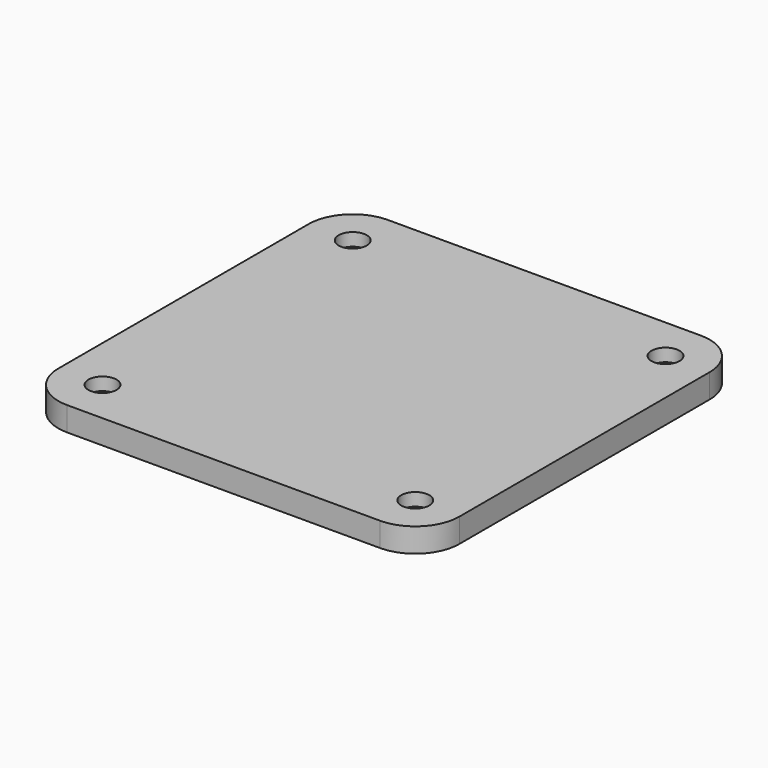
from build123d import *

# Parameters (mm, degrees)
F0_W     = 50
F0_H     = 50
F0_R     = 1.75
F1_DEPTH = 3
F2_R     = 5.5
F3_SIZE  = 1.4


with BuildPart() as f1:
    # F0 (on Top) → F1 (new body)
    with BuildSketch(Plane.XY):
        Rectangle(F0_W, F0_H)
        with Locations((-19.5, -19.5)):
            Circle(F0_R, mode=Mode.SUBTRACT)
        with Locations((19.5, -19.5)):
            Circle(F0_R, mode=Mode.SUBTRACT)
        with Locations((-19.5, 19.5)):
            Circle(F0_R, mode=Mode.SUBTRACT)
        with Locations((19.5, 19.5)):
            Circle(F0_R, mode=Mode.SUBTRACT)
    extrude(amount=F1_DEPTH)

    # F2
    f2_edges = [f1.edges().sort_by_distance(p)[0] for p in [
        (-25, -25, 1.5),
        (25, -25, 1.5),
        (25, 25, 1.5),
        (-25, 25, 1.5),
    ]]
    fillet(f2_edges, radius=F2_R)

    # F3
    f3_edges = [f1.edges().sort_by_distance(p)[0] for p in [
        (-21.25, -19.5, 0),
        (-21.25, 19.5, 0),
        (17.75, 19.5, 0),
        (17.75, -19.5, 0),
    ]]
    chamfer(f3_edges, length=F3_SIZE)


solid = f1.part
